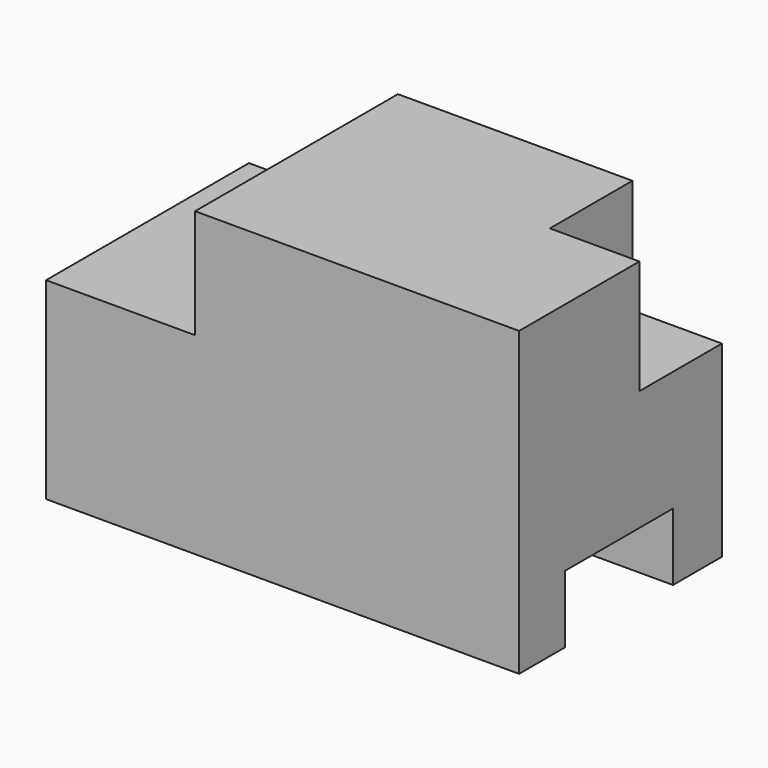
from build123d import *

# Parameters (mm, degrees)
F1_DEPTH = 33.274
F2_W     = 11.7478076556
F2_H     = 13.536944912
F3_DEPTH = 14.986
F4_W     = 17.6784005016
F4_H     = 8.8392011821
F5_DEPTH = 84.836


with BuildPart() as f1:
    # F0 (on Front) → F1 (new body)
    with BuildSketch(Plane.XZ):
        Polygon((42.5196029246, 0), (0, 0), (0, -14.3256001174), (-19.5541083813, -14.3256001174), (-19.5541083813, -39.6240018308), (42.5196029246, -39.6240018308), align=None)
    extrude(amount=F1_DEPTH)

    # F2 (on face) → F3 (cut)
    with BuildSketch(Plane.XY):
        with Locations((36.6456990968, -6.768472456)):
            Rectangle(F2_W, F2_H)
    extrude(amount=-F3_DEPTH, mode=Mode.SUBTRACT)

    # F4 (on face) → F5 (cut)
    with BuildSketch(Plane.YZ.offset(42.5196029246)):
        with Locations((-16.8679049239, -35.2044012398)):
            Rectangle(F4_W, F4_H)
    extrude(amount=-F5_DEPTH, mode=Mode.SUBTRACT)


solid = f1.part
